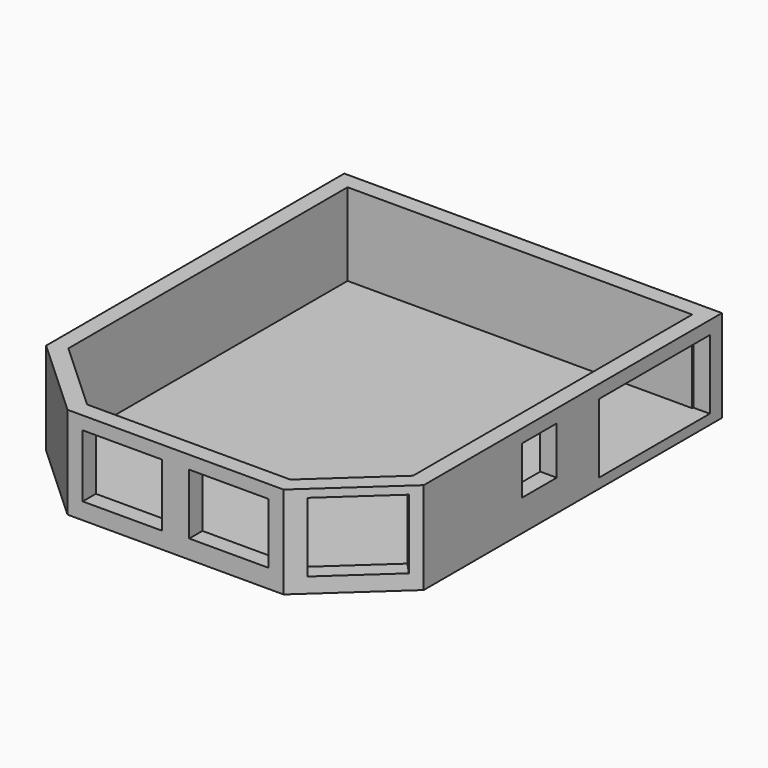
from build123d import *

# Parameters (mm, degrees)
F1_DEPTH  = 76.2
F3_DEPTH  = 635
F4_W      = 1066.8
F4_H      = 533.4
F4_W_2    = 335.28
F4_H_2    = 368.3
F6_DEPTH  = 127
F5_W      = 609.6
F5_H      = 533.4
F7_DEPTH  = 127
F9_DEPTH  = 127
F10_W     = 609.6
F10_H     = 467.0014331446
F11_DEPTH = 127


with BuildPart() as f1:
    # F0 (on Top) → F1 (new body)
    with BuildSketch(Plane.XY):
        Polygon((2908.3, 0), (0, 0), (0, -2870.2), (622.3, -3441.7), (2286, -3441.7), (2908.3, -2870.2), align=None)
    extrude(amount=-F1_DEPTH)

    # F2 (on face) → F3 (join)
    with BuildSketch(Plane.XY):
        Polygon((2908.3, -2870.2), (2908.3, 0), (0, 0), (0, -2870.2), (622.3, -3441.7), (2286, -3441.7), align=None)
        Polygon((127, -2814.4024475864), (127, -127), (2781.3, -127), (2781.3, -2814.4024475864), (2236.5315540385, -3314.7), (671.7684459615, -3314.7), align=None, mode=Mode.SUBTRACT)
    extrude(amount=F3_DEPTH)

    # F4 (on face) → F6 (cut, through all)
    with BuildSketch(Plane.YZ.offset(2908.3)):
        with Locations((-650.24, 266.7)):
            Rectangle(F4_W, F4_H)
        with Locations((-1757.68, 349.25)):
            Rectangle(F4_W_2, F4_H_2)
    extrude(amount=-F6_DEPTH, mode=Mode.SUBTRACT)

    # F5 (on face) → F7 (cut, through all)
    with BuildSketch(Plane(origin=(2760.528355174, -3005.9086534117, 0), x_dir=(0.7365298884, 0.6764049996, 0), z_dir=(0.6764049996, -0.7365298884, 0))):
        with Locations((-193.8308253884, 307.024091053)):
            Rectangle(F5_W, F5_H)
    extrude(amount=-F7_DEPTH, mode=Mode.SUBTRACT)

    # F8 (on face) → F9 (cut, through all)
    with BuildSketch(Plane.XZ.offset(3441.7)):
        Polygon((1348.74, 533.8517464795), (739.14, 533.8517464795), (739.14, 51.6308471463), (1348.74, 51.6308471463), (1348.74, 200.239806181), align=None)
    extrude(amount=-F9_DEPTH, mode=Mode.SUBTRACT)

    # F10 (on face) → F11 (cut, through all)
    with BuildSketch(Plane.XZ.offset(3441.7)):
        with Locations((1864.36, 300.3510299072)):
            Rectangle(F10_W, F10_H)
    extrude(amount=-F11_DEPTH, mode=Mode.SUBTRACT)


solid = f1.part
